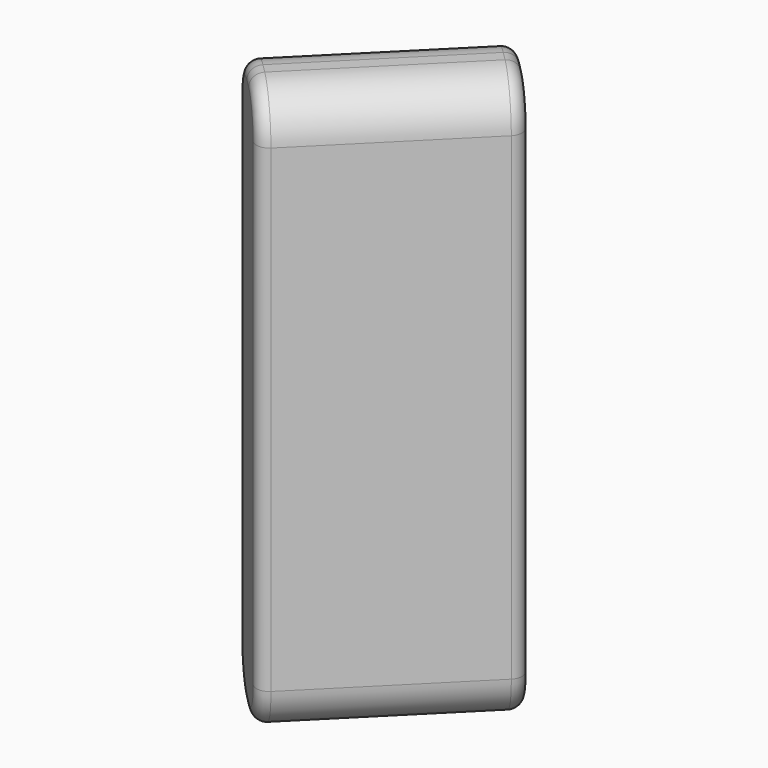
from build123d import *

# Parameters (mm, degrees)
BOX016_W                  = 16
BOX016_H                  = 34
BOX016_DEPTH              = 90
BOX016_PLACEMENT_ANGLE    = 45
FILLET_R                  = 7
FILLET001_R               = 2
FILLET001_PLACEMENT_ANGLE = 90


with BuildPart() as part:
    # Box016 → Box016 (new body)
    with BuildSketch(Plane.XY):
        with Locations((8, 17)):
            Rectangle(BOX016_W, BOX016_H)
    extrude(amount=BOX016_DEPTH)


with BuildPart() as part_1:
    # Box016 placement: moved
    add(part.part.moved(Location((0, 0, 180))).rotate(Axis((0, 0, 180), (0, 0, 1)), BOX016_PLACEMENT_ANGLE))

    # Fillet
    fillet_edges = [part_1.edges().sort_by_distance(p)[0] for p in [
        (-12.020815, 12.020815, 270),
        (-12.020815, 12.020815, 180),
        (-0.707107, 23.334524, 270),
        (-0.707107, 23.334524, 180),
    ]]
    fillet(fillet_edges, radius=FILLET_R)


with BuildPart() as part_2:
    # Fillet placement: moved
    add(part_1.part.moved(Location((-2, -26, -162))))

    # Fillet001
    fillet001_edges = [part_2.edges().sort_by_distance(p)[0] for p in [
        (-2, -26, 63),
        (-26.041631, -1.958369, 63),
    ]]
    fillet(fillet001_edges, radius=FILLET001_R)


with BuildPart() as part_3:
    # Fillet001 placement: moved
    add(part_2.part.rotate(Axis((0, 0, 0), (0, 0, 1)), FILLET001_PLACEMENT_ANGLE))


solid = part_3.part
